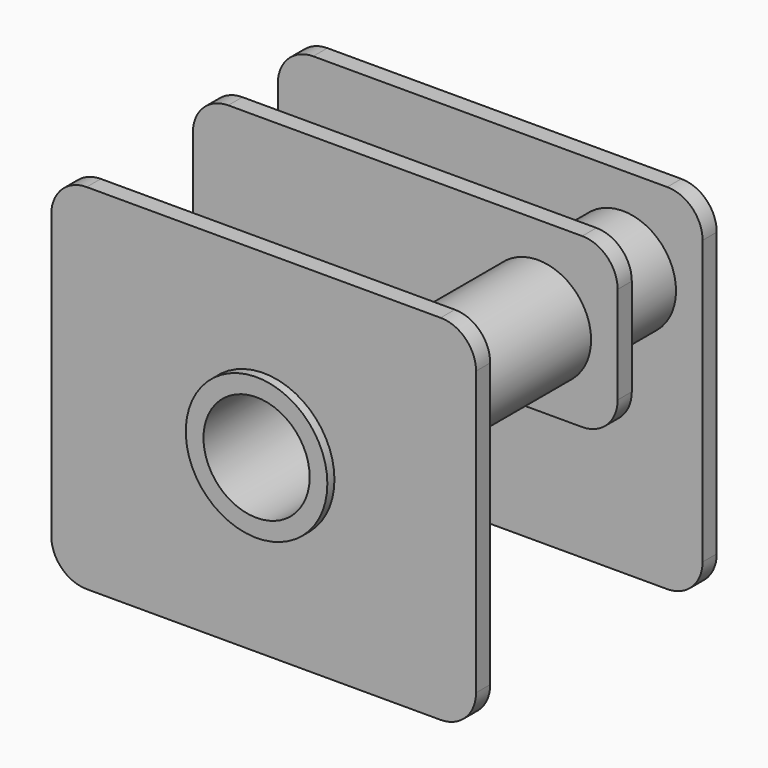
from build123d import *

# Parameters (mm, degrees)
SKETCH006_W     = 12
SKETCH006_H     = 10
PAD003_DEPTH    = 0.5
SKETCH007_R     = 1.5
PAD004_DEPTH    = 7.7
SKETCH008_W     = 12
SKETCH008_H     = 10
PAD005_DEPTH    = 0.5
SKETCH009_W     = 12
SKETCH009_H     = 10
PAD006_DEPTH    = 0.5
SKETCH010_R     = 2
PAD007_DEPTH    = 0.25
SKETCH011_R     = 2.5
PAD008_DEPTH    = 3
SKETCH012_R     = 1.5
POCKET003_DEPTH = 5
POCKET004_DEPTH = 1
FILLET_R        = 1
SKETCH014_R     = 1.5
POCKET005_DEPTH = 2


with BuildPart() as part:
    # Sketch006 (on DatumPlane) → Pad003 (new body)
    with BuildSketch(Plane.XZ.offset(14)):
        Rectangle(SKETCH006_W, SKETCH006_H)
    extrude(amount=PAD003_DEPTH)

    # Sketch007 (on Face6 of Pad003) → Pad004 (join)
    with BuildSketch(Plane.XZ.offset(14.5)):
        with Locations((3.75, 2.5)):
            Circle(SKETCH007_R)
        with Locations((-3.75, -2.5)):
            Circle(SKETCH007_R)
    extrude(amount=PAD004_DEPTH)

    # Sketch008 (on DatumPlane) → Pad005 (join)
    with BuildSketch(Plane.XZ.offset(17)):
        Rectangle(SKETCH008_W, SKETCH008_H)
    extrude(amount=PAD005_DEPTH)

    # Sketch009 (on DatumPlane) → Pad006 (join)
    with BuildSketch(Plane.XZ.offset(22)):
        Rectangle(SKETCH009_W, SKETCH009_H)
    extrude(amount=PAD006_DEPTH)

    # Sketch010 (on Face22 of Pad006) → Pad007 (join)
    with BuildSketch(Plane.XZ.offset(22.5)):
        Circle(SKETCH010_R)
    extrude(amount=PAD007_DEPTH)

    # Sketch011 (on Face17 of Pad007) → Pad008 (join)
    with BuildSketch(Plane(origin=(0, -22, 0), x_dir=(1, 0, 0), z_dir=(0, 1, 0))):
        Circle(SKETCH011_R)
    extrude(amount=PAD008_DEPTH)

    # Sketch012 (on Face26 of Pad008) → Pocket003 (cut)
    with BuildSketch(Plane.XZ.offset(22.75)):
        Circle(SKETCH012_R)
    extrude(amount=-POCKET003_DEPTH, mode=Mode.SUBTRACT)

    # Sketch013 (on Face14 of Pocket003) → Pocket004 (cut)
    with BuildSketch(Plane.XZ.offset(17.5)):
        with BuildLine():
            Line((7.000018, 0.25), (7.000018, -6))
            Line((7.000018, -6), (0.75, -6))
            Line((0.75, -2), (0.75, -6))
            ThreePointArc((3.000018, 0.25), (1.409016, -0.409003), (0.75, -2))
            Line((3.000018, 0.25), (7.000018, 0.25))
        make_face()
    extrude(amount=-POCKET004_DEPTH, mode=Mode.SUBTRACT)

    # Fillet
    fillet_edges = [part.edges().sort_by_distance(p)[0] for p in [
        (6, -22.25, 5),
        (6, -17.25, 5),
        (6, -14.25, 5),
        (-6, -22.25, 5),
        (-6, -17.25, 5),
        (-6, -14.25, 5),
        (-6, -22.25, -5),
        (-6, -17.25, -5),
        (-6, -14.25, -5),
        (6, -22.25, -5),
        (6, -14.25, -5),
        (6, -17.25, 0.25),
        (0.75, -17.25, -5),
    ]]
    fillet(fillet_edges, radius=FILLET_R)

    # Sketch014 (on Face2 of Fillet) → Pocket005 (cut)
    with BuildSketch(Plane(origin=(0, -14, 0), x_dir=(1, 0, 0), z_dir=(0, 1, 0))):
        Circle(SKETCH014_R)
    extrude(amount=-POCKET005_DEPTH, mode=Mode.SUBTRACT)


solid = part.part
